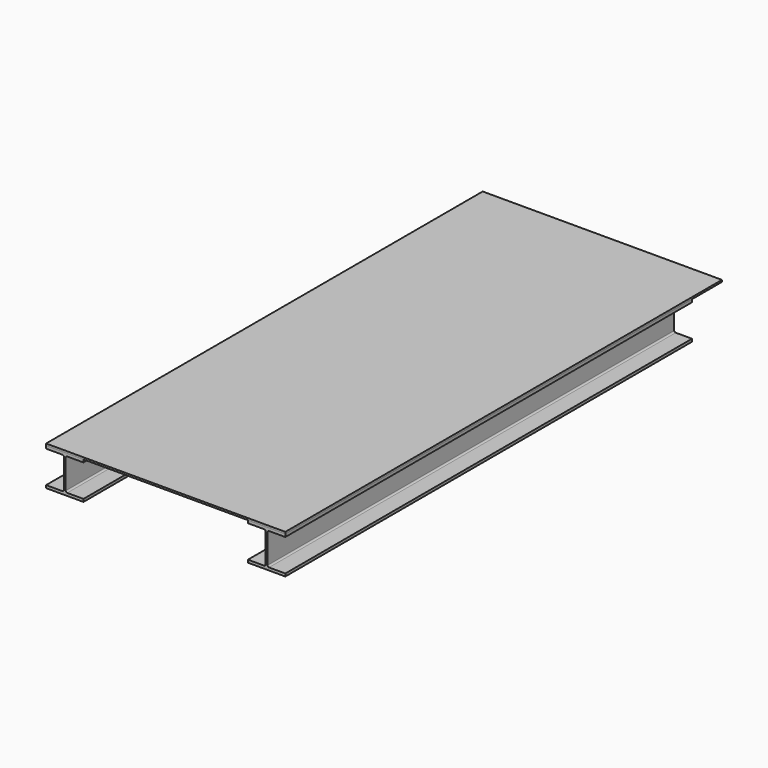
from build123d import *

# Parameters (mm, degrees)
F0_W      = 812.8
F0_H      = 1854.2
F1_DEPTH  = 6.35
F2_W      = 127
F2_H      = 1727.2
F3_DEPTH  = 9.144
F5_DEPTH  = 108.966
F7_DEPTH  = 9.144
F8_W      = 127
F8_H      = 1727.2
F9_DEPTH  = 9.144
F11_DEPTH = 108.966
F13_DEPTH = 9.144
F14_R     = 5.08
F15_R     = 5.08


with BuildPart() as f1:
    # F0 (on Top) → F1 (new body)
    with BuildSketch(Plane.XY):
        with Locations((2.005026, 339.408812)):
            Rectangle(F0_W, F0_H)
    extrude(amount=F1_DEPTH)


with BuildPart() as f3:
    # F2 (on face) → F3 (new body)
    with BuildSketch(Plane(origin=(0, 0, 0), x_dir=(1, 0, 0), z_dir=(0, 0, -1))):
        with Locations((-340.894974, -275.908812)):
            Rectangle(F2_W, F2_H)
    extrude(amount=F3_DEPTH)

    # F4 (on face) → F5 (join)
    with BuildSketch(Plane(origin=(0, 0, -9.144), x_dir=(1, 0, 0), z_dir=(0, 0, -1))):
        Polygon((-337.846974, 587.691188), (-340.894974, 587.691188), (-343.942974, 587.691188), (-343.942974, -1139.508812), (-337.846974, -1139.508812), align=None)
    extrude(amount=F5_DEPTH)

    # F6 (on face) → F7 (join)
    with BuildSketch(Plane(origin=(0, 0, -118.11), x_dir=(1, 0, 0), z_dir=(0, 0, -1))):
        Polygon((-277.394974, 587.691188), (-340.894974, 587.691188), (-404.394974, 587.691188), (-404.394974, -1139.508812), (-277.394974, -1139.508812), align=None)
    extrude(amount=F7_DEPTH)

    # F14
    f14_edges = [f3.edges().sort_by_distance(p)[0] for p in [
        (-343.942974, 275.908812, -9.144),
        (-343.942974, 275.908812, -118.11),
        (-337.846974, 275.908812, -118.11),
        (-337.846974, 275.908812, -9.144),
    ]]
    fillet(f14_edges, radius=F14_R)


with BuildPart() as f9:
    # F8 (on face) → F9 (new body)
    with BuildSketch(Plane(origin=(0, 0, 0), x_dir=(1, 0, 0), z_dir=(0, 0, -1))):
        with Locations((344.905026, -275.908812)):
            Rectangle(F8_W, F8_H)
    extrude(amount=F9_DEPTH)

    # F10 (on face) → F11 (join)
    with BuildSketch(Plane(origin=(0, 0, -9.144), x_dir=(1, 0, 0), z_dir=(0, 0, -1))):
        Polygon((347.953026, 587.691188), (344.905026, 587.691188), (341.857026, 587.691188), (341.857026, -1139.508812), (347.953026, -1139.508812), align=None)
    extrude(amount=F11_DEPTH)

    # F12 (on face) → F13 (join)
    with BuildSketch(Plane(origin=(0, 0, -118.11), x_dir=(1, 0, 0), z_dir=(0, 0, -1))):
        Polygon((408.405026, 587.691188), (344.905026, 587.691188), (281.405026, 587.691188), (281.405026, -1139.508812), (408.405026, -1139.508812), align=None)
    extrude(amount=F13_DEPTH)

    # F15
    f15_edges = [f9.edges().sort_by_distance(p)[0] for p in [
        (347.953026, 275.908812, -9.144),
        (347.953026, 275.908812, -118.11),
        (341.857026, 275.908812, -9.144),
        (341.857026, 275.908812, -118.11),
    ]]
    fillet(f15_edges, radius=F15_R)


solid = Compound([f1.part, f3.part, f9.part])
